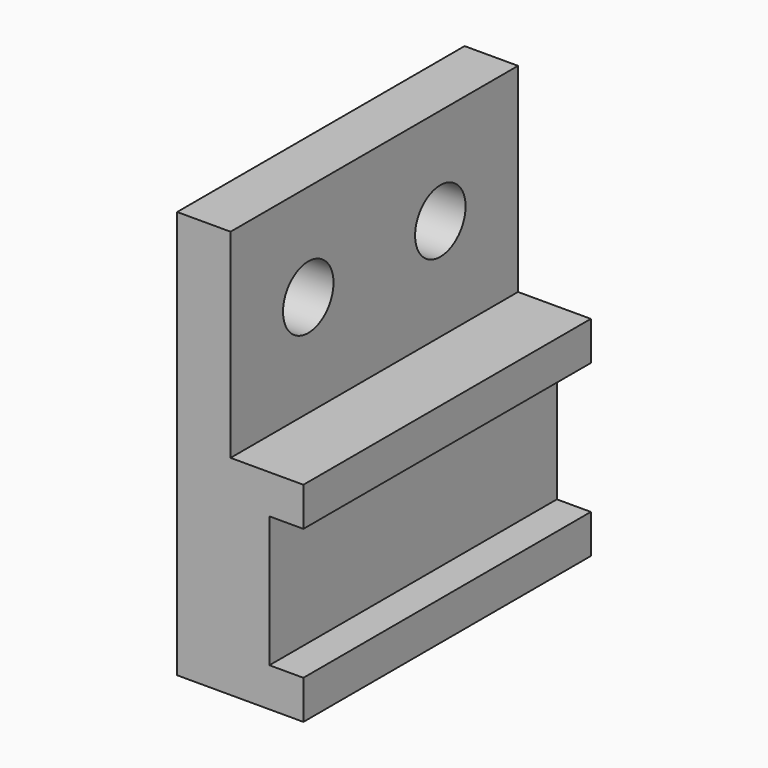
from build123d import *

# Parameters (mm, degrees)
F1_DEPTH = 117.475
F2_R     = 10.31875
F3_DEPTH = 17.4625


with BuildPart() as f1:
    # F0 (on Front) → F1 (new body)
    with BuildSketch(Plane.XZ):
        Polygon((0, 133.35), (0, 0), (41.275, 0), (41.275, 12.7), (30.1625, 12.7), (30.1625, 55.5625), (41.275, 55.5625), (41.275, 68.2625), (17.4625, 68.2625), (17.4625, 133.35), align=None)
    extrude(amount=-F1_DEPTH)

    # F2 (on face) → F3 (cut)
    with BuildSketch(Plane.YZ.offset(17.4625)):
        with Locations((85.725, 101.6)):
            Circle(F2_R)
        with Locations((31.75, 101.6)):
            Circle(F2_R)
    extrude(amount=-F3_DEPTH, mode=Mode.SUBTRACT)


solid = f1.part
